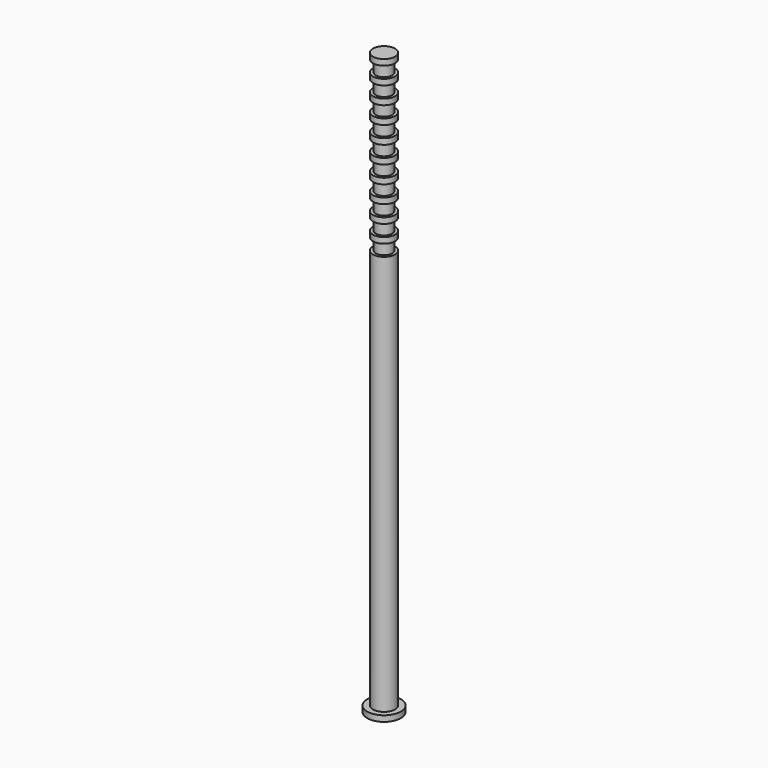
from build123d import *

# Parameters (mm, degrees)
F0_W   = 1
F0_H   = 1
F0_W_2 = 0.5
F0_H_2 = 2


with BuildPart() as f1:
    # F0 (on Front) → F1 (revolve)
    with BuildSketch(Plane.XZ):
        Polygon((1.9, 50.117493), (0, 50.117493), (0, -49.882507), (1.9, -49.882507), (1.9, -48.882507), (1.4, -48.882507), (1.4, -46.882507), (1.9, -46.882507), (1.9, 19.117493), (1.9, 20.117493), (1.4, 20.117493), (1.4, 22.117493), (1.9, 22.117493), (1.9, 23.117493), (1.4, 23.117493), (1.4, 25.117493), (1.9, 25.117493), (1.9, 26.117493), (1.4, 26.117493), (1.4, 28.117493), (1.9, 28.117493), (1.9, 29.117493), (1.4, 29.117493), (1.4, 31.117493), (1.9, 31.117493), (1.9, 32.117493), (1.4, 32.117493), (1.4, 34.117493), (1.9, 34.117493), (1.9, 34.617493), (1.9, 35.117493), (1.4, 35.117493), (1.4, 37.117493), (1.9, 37.117493), (1.9, 38.117493), (1.4, 38.117493), (1.4, 40.117493), (1.9, 40.117493), (1.9, 41.117493), (1.4, 41.117493), (1.4, 43.117493), (1.9, 43.117493), (1.9, 44.117493), (1.4, 44.117493), (1.4, 46.117493), (1.9, 46.117493), (1.9, 47.117493), (1.4, 47.117493), (1.4, 49.117493), (1.9, 49.117493), align=None)
        with Locations((2.4, -49.382507)):
            Rectangle(F0_W, F0_H)
        with Locations((1.65, -47.882507)):
            Rectangle(F0_W_2, F0_H_2)
    revolve(axis=Axis((0, 0, 0.117493), (0, 0, -1)))


solid = f1.part
